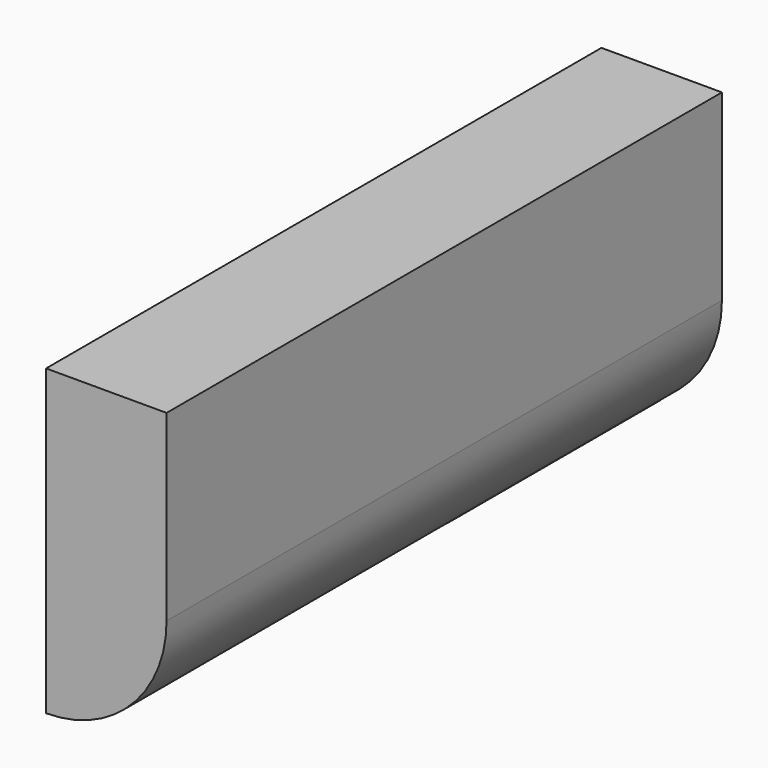
from build123d import *

# Parameters (mm, degrees)
F2_DEPTH = 25.4
F3_DEPTH = 88.646
F4_DEPTH = 310.642
F1_R     = 43.7167010522
F5_DEPTH = 128.016


with BuildPart() as f2:
    # F0 (on Front) → F2 (new body)
    with BuildSketch(Plane.XZ):
        with BuildLine():
            Line((58.3230019719, 0), (0, 0))
            Line((0, 0), (0, -58.3230019719))
            ThreePointArc((0, -58.3230019719), (41.2405901935, -41.2405901935), (58.3230019719, 0))
        make_face()
    extrude(amount=F2_DEPTH)

    # F3 (add): a face of the model
    f3_faces = [f2.faces().sort_by_distance(p)[0] for p in [
        (29.1615009859, -12.7, 0),
    ]]
    extrude(f3_faces, amount=F3_DEPTH)

    # F4 (add): a face of the model
    f4_faces = [f2.faces().sort_by_distance(p)[0] for p in [
        (27.6595840852, -25.4, 20.7894486582),
    ]]
    extrude(f4_faces, amount=F4_DEPTH)

    # F1 (on Front) → F5 (join)
    with BuildSketch(Plane.XZ):
        with Locations((0, -19.1270262003)):
            Circle(F1_R)
    extrude(amount=F5_DEPTH)


solid = f2.part
